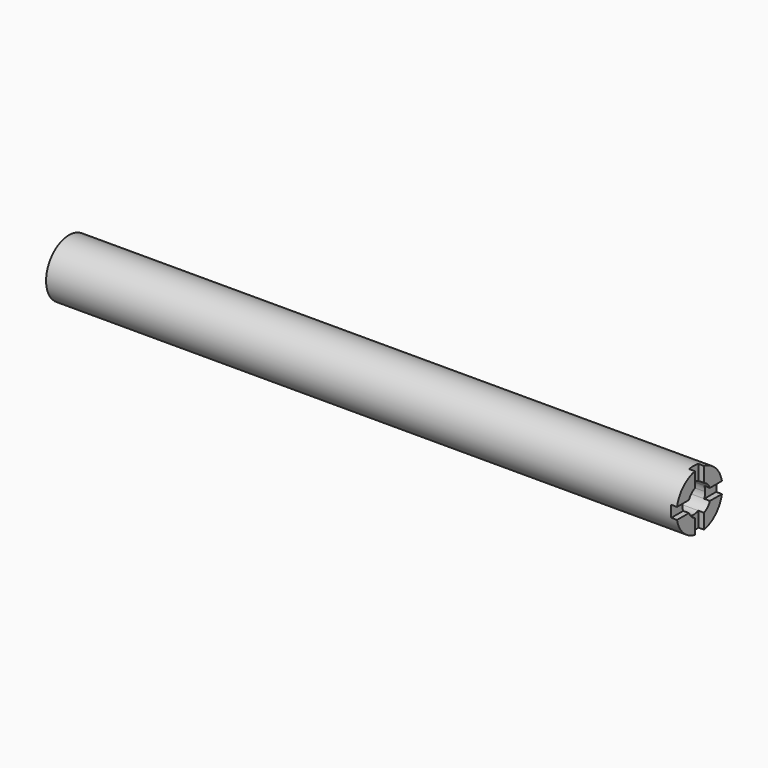
from build123d import *

# Parameters (mm, degrees)
F0_W     = 52.451
F0_H     = 12.7
F0_W_2   = 207.899
F0_W_3   = 19.05
F3_DEPTH = 2.54
F4_DEPTH = 279.401


with BuildPart() as f1:
    # F0 (on Front) → F1 (revolve)
    with BuildSketch(Plane.XZ):
        with Locations((26.2255, 6.35)):
            Rectangle(F0_W, F0_H)
        with Locations((156.4005, 6.35)):
            Rectangle(F0_W_2, F0_H)
        with Locations((269.875, 6.35)):
            Rectangle(F0_W_3, F0_H)
    revolve(axis=Axis((26.2255, 0, 0), (-1, 0, 0)))

    # F2 (on face) → F3 (cut)
    with BuildSketch(Plane.YZ.offset(279.4)):
        with BuildLine():
            Line((2.54, 5.819871), (2.54, 12.443408))
            ThreePointArc((2.54, 12.443408), (0, 12.7), (-2.54, 12.443408))
            Line((-2.54, 12.443408), (-2.54, 5.819871))
            ThreePointArc((-2.54, 5.819871), (0, 6.35), (2.54, 5.819871))
        make_face()
        with BuildLine():
            Line((-5.819871, 2.54), (-12.443408, 2.54))
            ThreePointArc((-12.443408, 2.54), (-12.7, 0), (-12.443408, -2.54))
            Line((-12.443408, -2.54), (-5.819871, -2.54))
            ThreePointArc((-5.819871, -2.54), (-6.35, 0), (-5.819871, 2.54))
        make_face()
        with BuildLine():
            ThreePointArc((12.443408, -2.54), (12.635689, -1.276464), (12.7, 0))
            ThreePointArc((12.7, 0), (12.635689, 1.276464), (12.443408, 2.54))
            Line((12.443408, 2.54), (5.819871, 2.54))
            ThreePointArc((5.819871, 2.54), (6.216055, 1.297366), (6.35, 0))
            ThreePointArc((6.35, 0), (6.216055, -1.297366), (5.819871, -2.54))
            Line((5.819871, -2.54), (12.443408, -2.54))
        make_face()
        with BuildLine():
            ThreePointArc((-2.54, -12.443408), (0, -12.7), (2.54, -12.443408))
            Line((2.54, -12.443408), (2.54, -5.819871))
            ThreePointArc((2.54, -5.819871), (0, -6.35), (-2.54, -5.819871))
            Line((-2.54, -5.819871), (-2.54, -12.443408))
        make_face()
    extrude(amount=-F3_DEPTH, mode=Mode.SUBTRACT)

    # F2 (on face) → F4 (cut, through all)
    with BuildSketch(Plane.YZ.offset(279.4)):
        with BuildLine():
            ThreePointArc((6.35, 0), (6.216055, 1.297366), (5.819871, 2.54))
            ThreePointArc((5.819871, 2.54), (4.490128, 4.490128), (2.54, 5.819871))
            ThreePointArc((2.54, 5.819871), (0, 6.35), (-2.54, 5.819871))
            ThreePointArc((-2.54, 5.819871), (-4.490128, 4.490128), (-5.819871, 2.54))
            ThreePointArc((-5.819871, 2.54), (-6.35, 0), (-5.819871, -2.54))
            ThreePointArc((-5.819871, -2.54), (-4.490128, -4.490128), (-2.54, -5.819871))
            ThreePointArc((-2.54, -5.819871), (0, -6.35), (2.54, -5.819871))
            ThreePointArc((2.54, -5.819871), (4.490128, -4.490128), (5.819871, -2.54))
            ThreePointArc((5.819871, -2.54), (6.216055, -1.297366), (6.35, 0))
        make_face()
    extrude(amount=-F4_DEPTH, mode=Mode.SUBTRACT)


solid = f1.part
